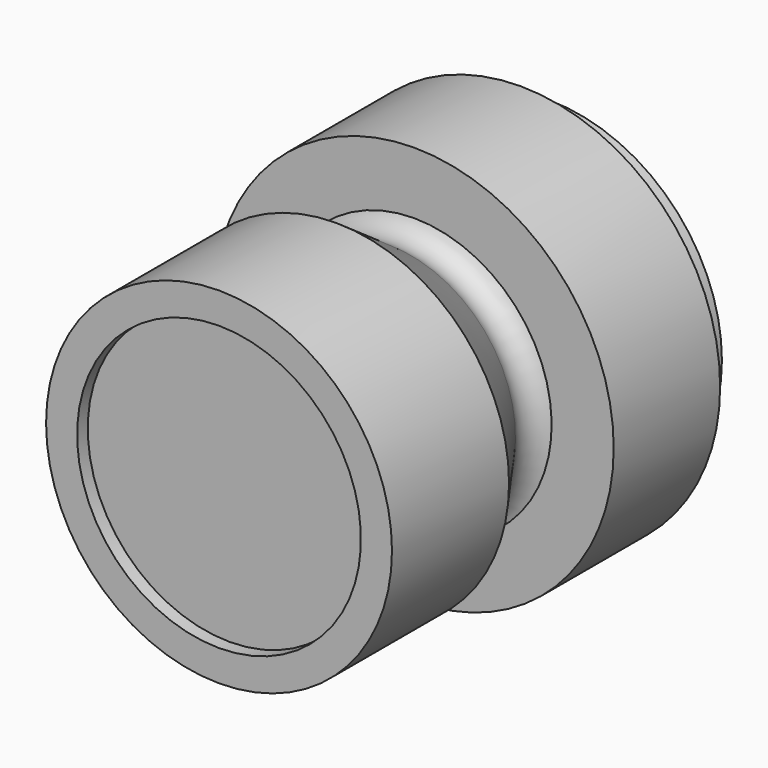
from build123d import *


with BuildPart() as f1:
    # F0 (on Right) → F1 (revolve)
    with BuildSketch(Plane.YZ):
        with BuildLine():
            Line((33, 13), (0, 13))
            Line((0, 13), (0, 6))
            Line((0, 6), (3, 6))
            Line((3, 6), (3, -26))
            Line((3, -26), (21, -26))
            Line((21, -26), (21, 0))
            Line((21, 0), (63, 0))
            Line((63, 0), (63, 3))
            Line((63, 3), (93, 5))
            Line((93, 5), (93, 13))
            Line((93, 13), (85, 13))
            Line((85, 13), (85, 19))
            Line((85, 19), (55, 19))
            Line((55, 19), (55, 5))
            ThreePointArc((55, 5), (51.778105, 2.126595), (47.519304, 2.833474))
            Line((47.519304, 2.833474), (33, 13))
        make_face()
    revolve(axis=Axis((0, 12, -26), (0, -1, 0)))


solid = f1.part
